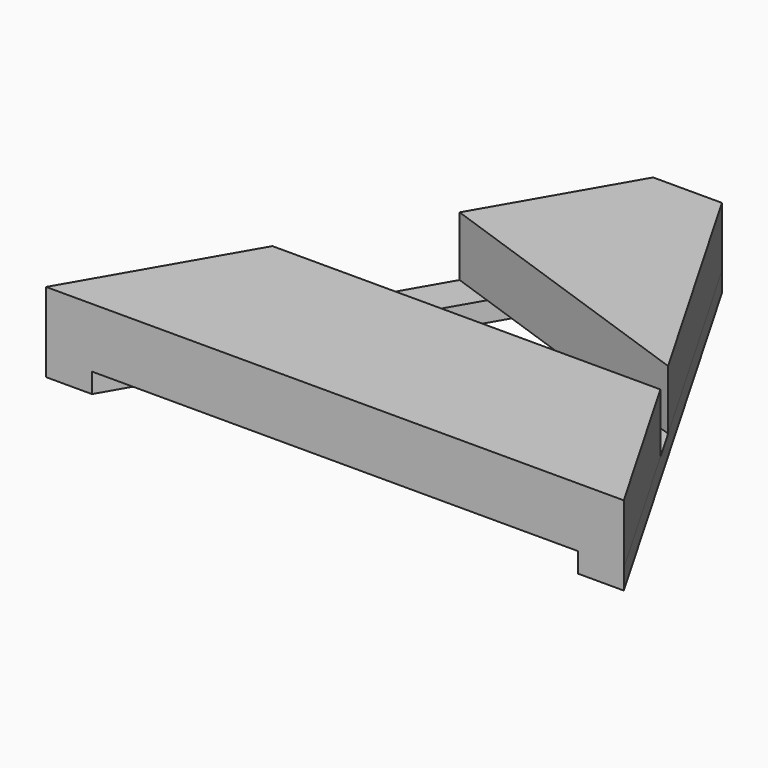
from build123d import *

# Parameters (mm, degrees)
F1_DEPTH = 1
F3_DEPTH = 3


with BuildPart() as f1:
    # F0 (on Top) → F1 (new body)
    with BuildSketch(Plane.XY):
        Polygon((-2.187478, 15.077314), (-15, -7.114624), (-12.690599, -7.114624), (-0.455428, 14.077314), (11.779744, -7.114624), (14.089145, -7.114624), (1.276623, 15.077314), align=None)
    extrude(amount=F1_DEPTH)

    # F2 (on face) → F3 (join)
    with BuildSketch(Plane.XY.offset(1)):
        Polygon((-10.223, 1.159382), (-15, -7.114624), (14.089145, -7.114624), (9.312145, 1.159382), align=None)
        Polygon((1.276623, 15.077314), (-2.187478, 15.077314), (-6.271465, 8.003641), (8.305015, 2.903783), align=None)
    extrude(amount=F3_DEPTH)


solid = f1.part
